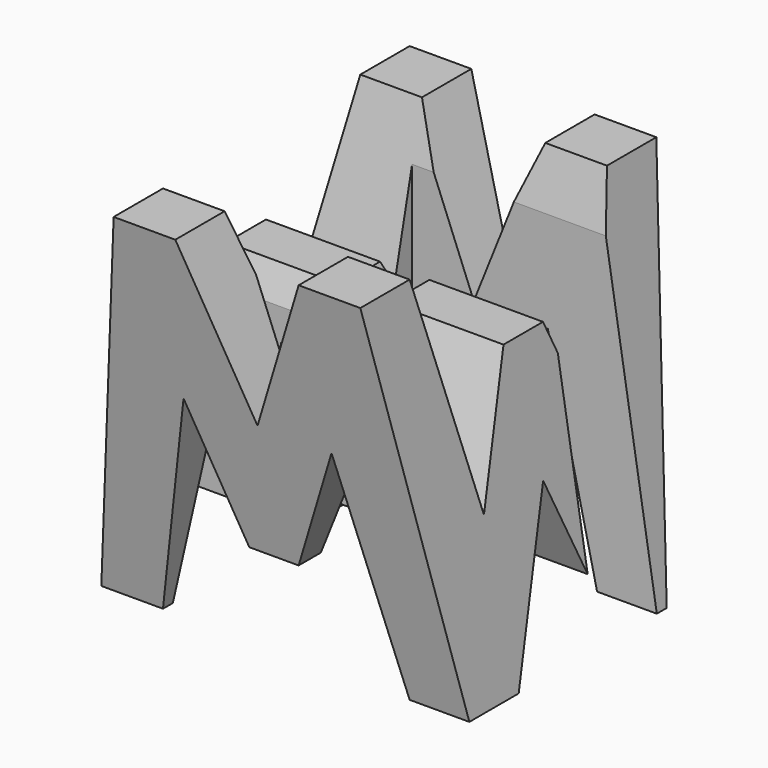
from build123d import *

# Parameters (mm, degrees)
F0_W     = 38.1
F0_H     = 38.1
F1_DEPTH = 38.1
F5_DEPTH = 38.1
F7_DEPTH = 38.1
F8_W     = 25.4
F8_H     = 7.62
F9_DEPTH = 38.1


with BuildPart() as f1:
    # F0 (on Front) → F1 (new body)
    with BuildSketch(Plane.XZ):
        with Locations((19.05, 19.05)):
            Rectangle(F0_W, F0_H)
    extrude(amount=F1_DEPTH)

    # F4 (on face) → F5 (cut)
    with BuildSketch(Plane.YZ.offset(38.1)):
        Polygon((-6.35, 38.1), (-31.75, 38.1), (-26.67, 15.875), (-21.59, 28.575), (-16.51, 28.575), (-11.43, 15.875), align=None)
        Polygon((-31.75, 0), (-38.1, 38.1), (-38.1, 0), align=None)
        Polygon((-19.05, 15.875), (-25.4, 0), (-12.7, 0), align=None)
        Polygon((0, 0), (0, 38.1), (-6.35, 0), align=None)
    extrude(amount=-F5_DEPTH, mode=Mode.SUBTRACT)

    # F6 (on offset) → F7 (cut)
    with BuildSketch(Plane.XZ.offset(38.1)):
        Polygon((0, 0), (6.35, 38.1), (0, 38.1), align=None)
        Polygon((25.4, 38.1), (12.7, 38.1), (19.05, 22.225), align=None)
        Polygon((11.43, 22.225), (6.35, 0), (31.75, 0), (26.67, 22.225), (21.59, 9.525), (16.51, 9.525), align=None)
        Polygon((38.1, 38.1), (31.75, 38.1), (37.899472, 0), (38.1, 0), align=None)
    extrude(amount=-F7_DEPTH, mode=Mode.SUBTRACT)

    # F8 (on offset) → F9 (cut)
    with BuildSketch(Plane.XY.offset(38.1)):
        with Locations((25.4, -11.43)):
            Rectangle(F8_W, F8_H)
        with Locations((12.7, -26.67)):
            Rectangle(F8_W, F8_H)
    extrude(amount=-F9_DEPTH, mode=Mode.SUBTRACT)


solid = f1.part
